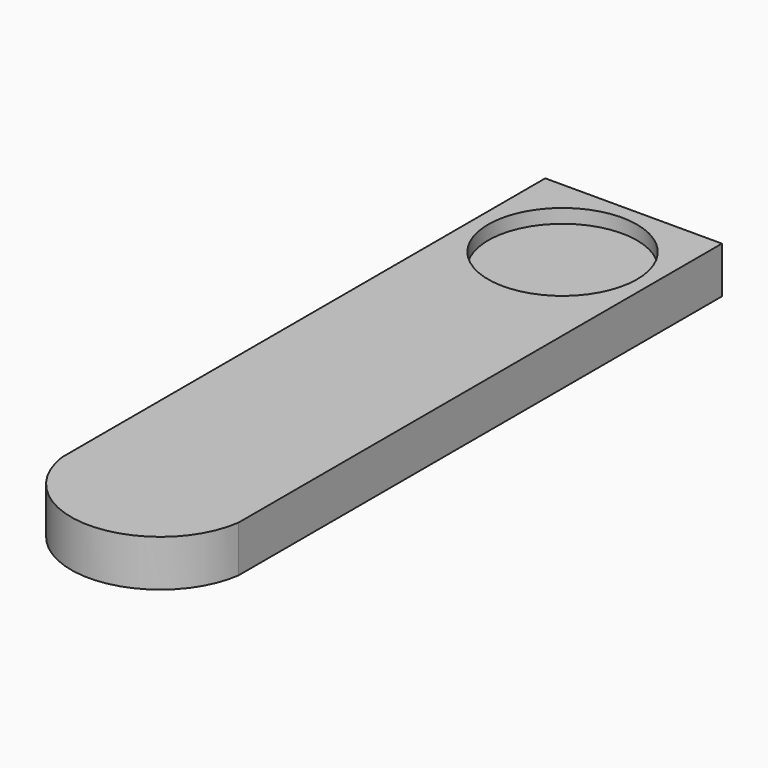
from build123d import *

# Parameters (mm, degrees)
PAD_DEPTH    = 10
SKETCH001_R  = 16
POCKET_DEPTH = 3


with BuildPart() as part:
    # Sketch → Pad (new body)
    with BuildSketch(Plane.XY):
        with BuildLine():
            Line((-19, 70.33521), (19, 70.33521))
            Line((19, 70.33521), (19, -59.66479))
            ThreePointArc((-19, -59.66479), (0, -76.095918), (19, -59.66479))
            Line((-19, -59.66479), (-19, 70.33521))
        make_face()
    extrude(amount=PAD_DEPTH)

    # Sketch001 → Pocket (cut)
    with BuildSketch(Plane.XY.offset(10)):
        with Locations((0, 51.243999)):
            Circle(SKETCH001_R)
    extrude(amount=-POCKET_DEPTH, mode=Mode.SUBTRACT)


solid = part.part
